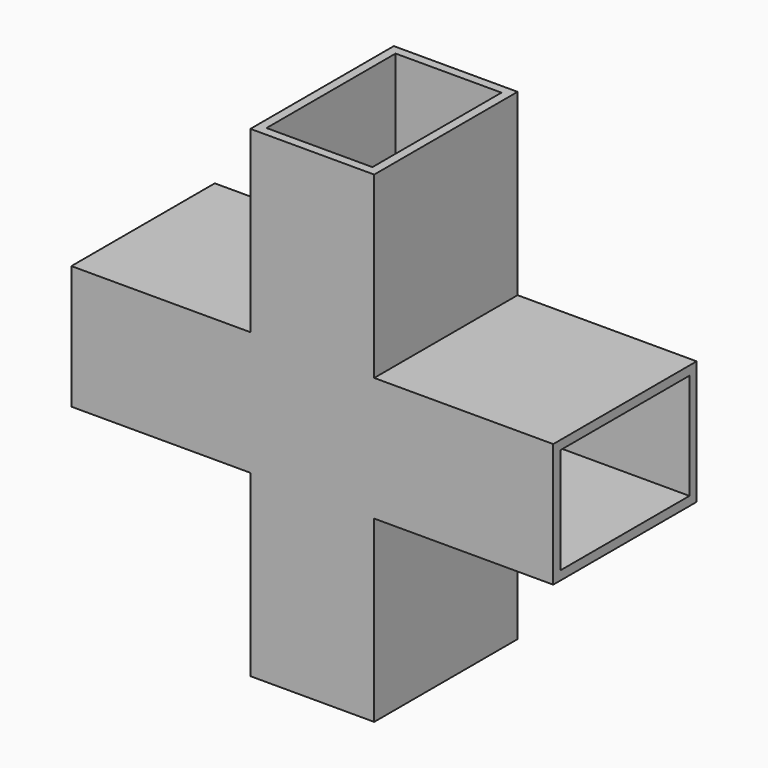
from build123d import *

# Parameters (mm, degrees)
F1_DEPTH = 50
F2_T     = -2.5


with BuildPart() as f1:
    # F0 (on Front) → F1 (new body)
    with BuildSketch(Plane.XZ):
        Polygon((17.2675400972, 67.2134011984), (0, 67.2134011984), (-17.2675400972, 67.2134011984), (-17.2675400972, 17.2675400972), (-67.2134011984, 17.2675400972), (-67.2134011984, 0), (-67.2134011984, -17.2675400972), (-17.2675400972, -17.2675400972), (-17.2675400972, -67.2134011984), (0, -67.2134011984), (17.2675400972, -67.2134011984), (17.2675400972, -17.2675400972), (67.2134011984, -17.2675400972), (67.2134011984, 0), (67.2134011984, 17.2675400972), (17.2675400972, 17.2675400972), align=None)
    extrude(amount=F1_DEPTH)

    # F2
    f2_openings = [f1.faces().sort_by_distance(p)[0] for p in [
        (67.213401, -25, 0),
        (0, -25, 67.213401),
        (-67.213401, -25, 0),
        (0, -25, -67.213401),
    ]]
    offset(amount=F2_T, openings=f2_openings, kind=Kind.INTERSECTION)


solid = f1.part
